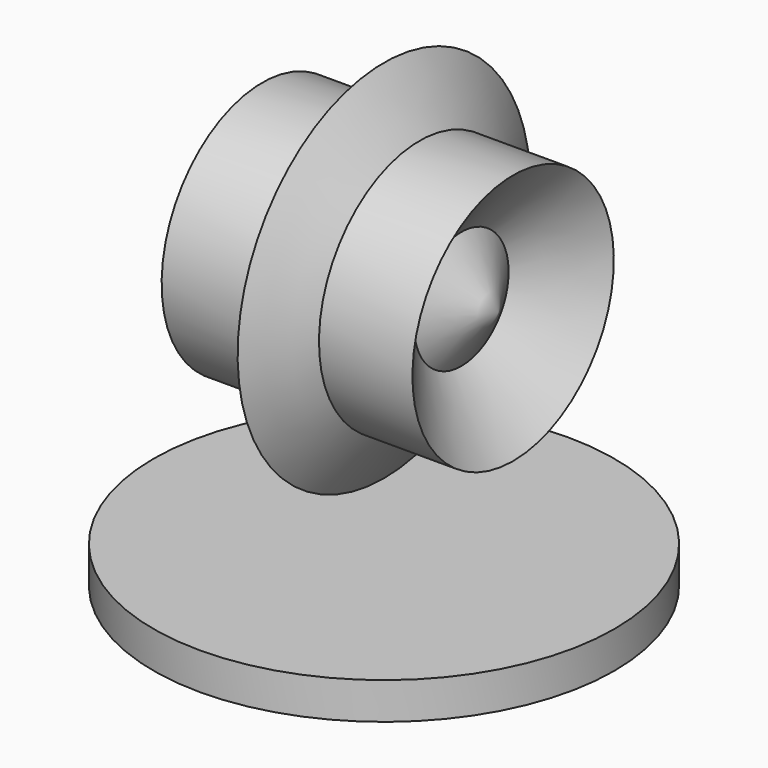
from build123d import *

# Parameters (mm, degrees)
F2_W = 75.634598732
F2_H = 12.0731294155


with BuildPart() as f1:
    # F0 (on Front) → F1 (revolve)
    with BuildSketch(Plane.XZ):
        Polygon((10.3852734835, 41.3004010916), (0, 54.7115989029), (-9.7875599346, 41.3004010916), align=None)
        Polygon((10.3852734835, 41.3004010916), (-9.7875599346, 41.3004010916), (-23.9389554322, 21.9097495304), (-11.0377831406, 0), (11.7038563714, 0), (25.3912828526, 21.9221381765), align=None)
        Polygon((-23.9389554322, 21.9097495304), (-9.7875599346, 41.3004010916), (-35.3568010032, 41.3004010916), align=None)
        Polygon((37.490401417, 41.3004010916), (10.3852734835, 41.3004010916), (25.3912828526, 21.9221381765), align=None)
        Polygon((-11.0377831406, 0), (-23.9389554322, 21.9097495304), (-39.9288013577, 0), align=None)
        Polygon((42.3672012985, 0), (25.3912828526, 21.9221381765), (11.7038563714, 0), align=None)
        Polygon((11.7038563714, 0), (-11.0377831406, 0), (0, -18.7452007085), align=None)
    revolve(axis=Axis((1.0668002069, 0, 41.3004010916), (1, 0, 0)))


with BuildPart() as f3:
    # F2 (on Front) → F3 (revolve)
    with BuildSketch(Plane.XZ):
        with Locations((-37.817299366, -43.7090806663)):
            Rectangle(F2_W, F2_H)
    revolve(axis=Axis((0, 0, -43.7090806663), (0, 0, -1)))


solid = Compound([f1.part, f3.part])
